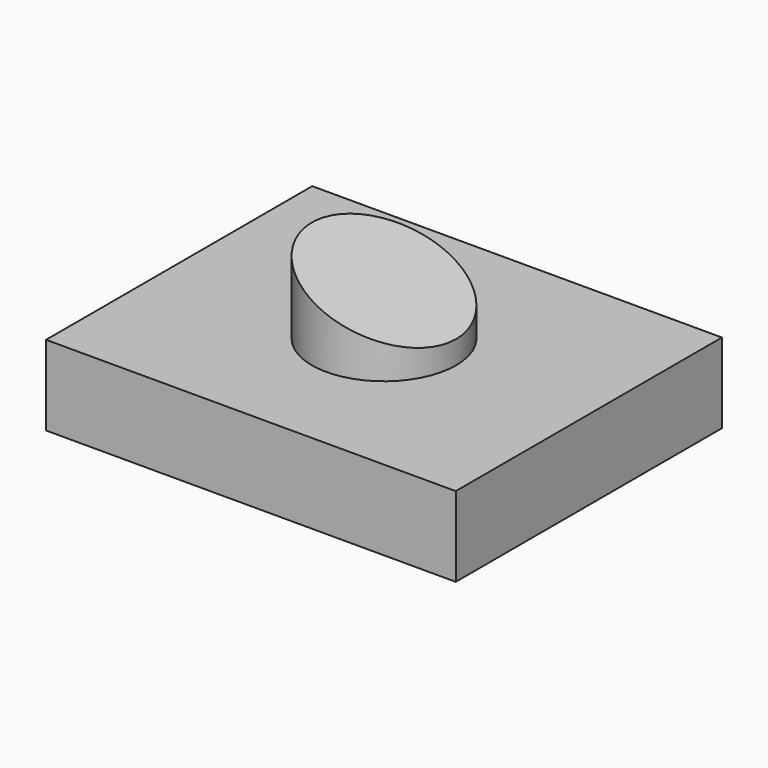
from build123d import *

# Parameters (mm, degrees)
F0_R     = 22.948461
F1_DEPTH = 50.8
F2_W     = 130.250856
F2_H     = 105.779626
F3_DEPTH = 25.4
F5_DEPTH = 127


with BuildPart() as f1:
    # F0 (on Top) → F1 (new body)
    with BuildSketch(Plane.XY):
        Circle(F0_R)
    extrude(amount=F1_DEPTH)

    # F2 (on Top) → F3 (join)
    with BuildSketch(Plane.XY):
        Rectangle(F2_W, F2_H)
    extrude(amount=F3_DEPTH)

    # F4 (on Front) → F5 (cut, symmetric)
    with BuildSketch(Plane.XZ):
        Polygon((31.802371, 53.156704), (-29.969381, 53.156704), (31.802371, 29.327836), (33.301385, 50.980239), (33.452064, 53.156704), align=None)
    extrude(amount=F5_DEPTH, both=True, mode=Mode.SUBTRACT)


solid = f1.part
